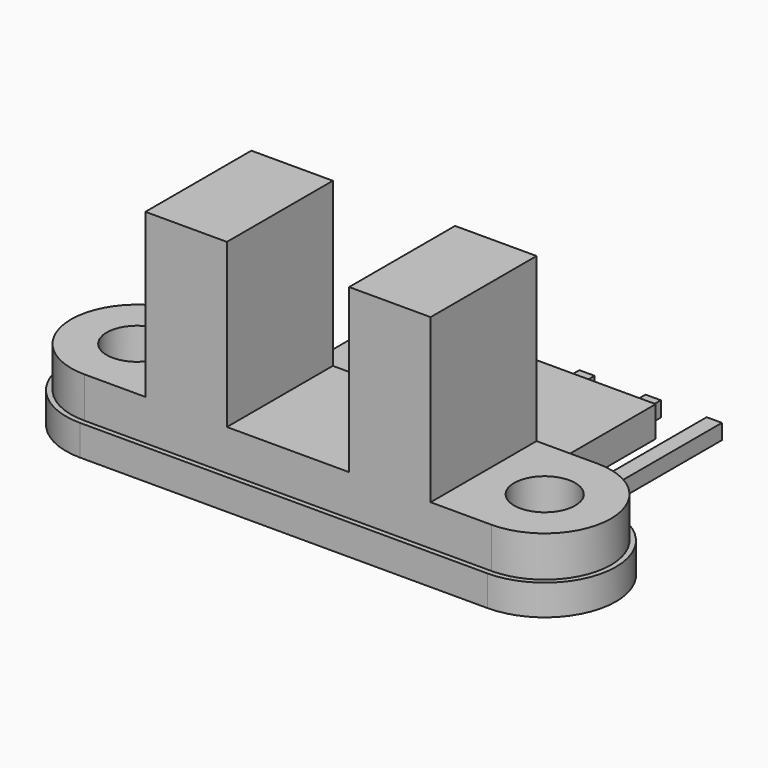
from build123d import *

# Parameters (mm, degrees)
BOX005_W         = 0.75
BOX005_H         = 10
BOX005_DEPTH     = 0.75
BOX006_W         = 0.75
BOX006_H         = 10
BOX006_DEPTH     = 0.75
BOX007_W         = 0.75
BOX007_H         = 10
BOX007_DEPTH     = 0.75
BOX004_W         = 7
BOX004_H         = 2.5
BOX004_DEPTH     = 4
SKETCH006_R      = 1.5
EXTRUDE003_DEPTH = 2
SKETCH005_R      = 1.5
EXTRUDE002_DEPTH = 1.5
SKETCH007_W      = 4
SKETCH007_H      = 6.5
EXTRUDE004_DEPTH = 8


with BuildPart() as cube001:
    # Box005 → Box005 (new body)
    with BuildSketch(Plane(origin=(2.75, 9, -4), x_dir=(1, 0, 0), z_dir=(0, 0, 1))):
        with Locations((0.375, 5)):
            Rectangle(BOX005_W, BOX005_H)
    extrude(amount=BOX005_DEPTH)


with BuildPart() as cube002:
    # Box006 → Box006 (new body)
    with BuildSketch(Plane(origin=(-0.25, 9, -4), x_dir=(1, 0, 0), z_dir=(0, 0, 1))):
        with Locations((0.375, 5)):
            Rectangle(BOX006_W, BOX006_H)
    extrude(amount=BOX006_DEPTH)


with BuildPart() as cube003:
    # Box007 → Box007 (new body)
    with BuildSketch(Plane(origin=(-3.5, 9, -4), x_dir=(1, 0, 0), z_dir=(0, 0, 1))):
        with Locations((0.375, 5)):
            Rectangle(BOX007_W, BOX007_H)
    extrude(amount=BOX007_DEPTH)


with BuildPart() as fusion005:
    # Box004 → Box004 (new body)
    with BuildSketch(Plane(origin=(-3.5, 9, -4), x_dir=(1, 0, 0), z_dir=(0, 0, 1))):
        with Locations((3.5, 1.25)):
            Rectangle(BOX004_W, BOX004_H)
    extrude(amount=BOX004_DEPTH)

    # Fusion005: union Cube001, Cube002, Cube003
    add(cube001.part)
    add(cube002.part)
    add(cube003.part)


with BuildPart() as extrude003:
    # Sketch006 → Extrude003 (new body)
    with BuildSketch(Plane.XY):
        with BuildLine():
            ThreePointArc((-10, 3.25), (-13.25, 0), (-10, -3.25))
            Line((-10, -3.25), (10, -3.25))
            ThreePointArc((10, -3.25), (13.25, 0), (10, 3.25))
            Line((10, 3.25), (-10, 3.25))
        make_face()
        with Locations((-10, 0)):
            Circle(SKETCH006_R, mode=Mode.SUBTRACT)
        with Locations((10, 0)):
            Circle(SKETCH006_R, mode=Mode.SUBTRACT)
    extrude(amount=EXTRUDE003_DEPTH)


with BuildPart() as extrude003_1:
    # Extrude003 placement: moved
    add(extrude003.part.moved(Location((0, 0, 1.5))))


with BuildPart() as fusion003:
    # Sketch005 → Extrude002 (new body)
    with BuildSketch(Plane.XY):
        with BuildLine():
            Line((-6.25, 11.5), (6.25, 11.5))
            Line((6.25, 11.5), (6.25, 3.5))
            Line((6.25, 3.5), (10, 3.5))
            ThreePointArc((10, -3.5), (13.5, 0), (10, 3.5))
            Line((10, -3.5), (-10, -3.5))
            ThreePointArc((-10, 3.5), (-13.5, 0), (-10, -3.5))
            Line((-10, 3.5), (-6.25, 3.5))
            Line((-6.25, 3.5), (-6.25, 11.5))
        make_face()
        with Locations((-10, 0)):
            Circle(SKETCH005_R, mode=Mode.SUBTRACT)
        with Locations((10, 0)):
            Circle(SKETCH005_R, mode=Mode.SUBTRACT)
    extrude(amount=EXTRUDE002_DEPTH)

    # Fusion003: union Extrude003
    add(extrude003_1.part)


with BuildPart() as extrude004:
    # Sketch007 (on Face15 of Fusion003) → Extrude004 (new body)
    with BuildSketch(Plane.XY.offset(3.5)):
        with Locations((5, 0)):
            Rectangle(SKETCH007_W, SKETCH007_H)
        with Locations((-5, 0)):
            Rectangle(SKETCH007_W, SKETCH007_H)
    extrude(amount=EXTRUDE004_DEPTH)


with BuildPart() as fusion006:
    # Fusion004 base: copy of Fusion003
    add(fusion003.part)

    # Fusion004: union Extrude004
    add(extrude004.part)

    # Fusion006: union Fusion005, Fusion003, Extrude004
    add(fusion005.part)
    add(fusion003.part)
    add(extrude004.part)


solid = fusion006.part
